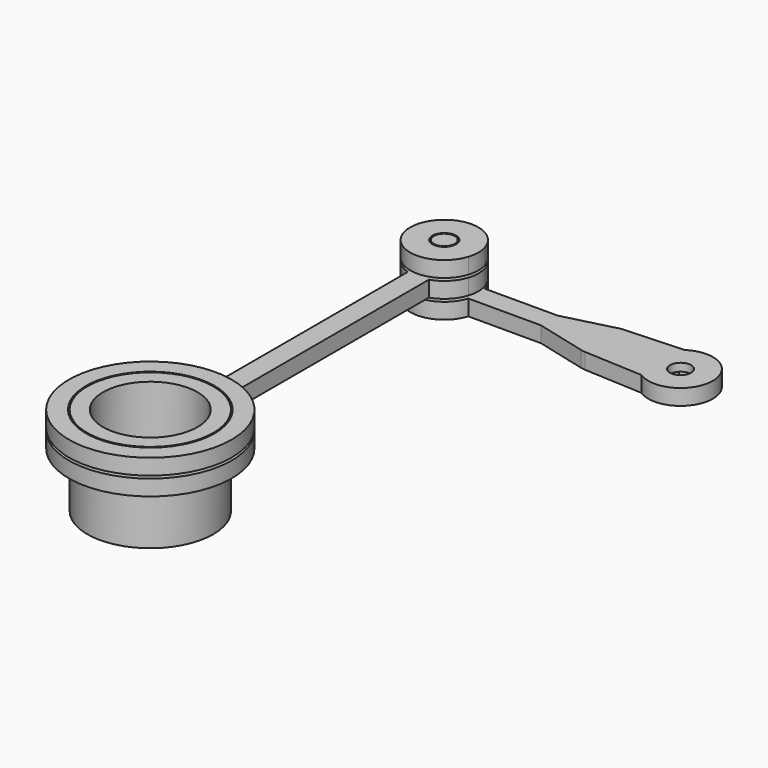
from build123d import *

# Parameters (mm, degrees)
F5_R       = 2.5
F5_R_2     = 2
F6_DEPTH   = 3
F7_DEPTH   = 1.5
F8_R       = 12.5
F8_R_2     = 2.5
F9_DEPTH   = 3
F10_R      = 2.25
F11_DEPTH  = 3
F10_R_2    = 2
F12_DEPTH  = 7
F5_R_3     = 12
F5_R_4     = 9
F13_DEPTH  = 10
F14_R      = 15.5
F14_R_2    = 12.25
F15_DEPTH  = 3
F17_DEPTH  = 7
F12_FACE_R = 2
F18_DEPTH  = 3


with BuildPart() as f6:
    # F5 (on Top) → F6 (new body, through all)
    with BuildSketch(Plane.XY):
        with BuildLine():
            ThreePointArc((-3.349309, -5.157968), (6.15, 0), (-3.349309, 5.157968))
            Line((-3.349309, 5.157968), (-14.482672, 4.594112))
            ThreePointArc((-14.482672, 4.594112), (-14.939377, 4.54805), (-15.389218, 4.456701))
            Line((-15.389218, 4.456701), (-25, 2))
            Line((-25, 2), (-38.815342, 2))
            ThreePointArc((-38.815342, 2), (-51.5, 0), (-38.815342, -2))
            Line((-38.815342, -2), (-25, -2))
            Line((-25, -2), (-15.389218, -4.456701))
            ThreePointArc((-15.389218, -4.456701), (-14.939377, -4.54805), (-14.482672, -4.594112))
            Line((-14.482672, -4.594112), (-3.349309, -5.157968))
        make_face()
        with Locations((-45, 0)):
            Circle(F5_R, mode=Mode.SUBTRACT)
        with BuildLine():
            ThreePointArc((-2.456115, 2.7), (3.65, 0), (-2.456115, -2.7))
            Line((-2.456115, -2.7), (-14.35622, -2.097312))
            ThreePointArc((-14.35622, -2.097312), (-16.35, 0), (-14.35622, 2.097312))
            Line((-14.35622, 2.097312), (-2.456115, 2.7))
        make_face(mode=Mode.SUBTRACT)
        with BuildLine():
            Line((-14.35622, -2.097312), (-2.456115, -2.7))
            ThreePointArc((-2.456115, -2.7), (3.65, 0), (-2.456115, 2.7))
            Line((-2.456115, 2.7), (-14.35622, 2.097312))
            ThreePointArc((-14.35622, 2.097312), (-16.35, 0), (-14.35622, -2.097312))
        make_face()
        Circle(F5_R_2, mode=Mode.SUBTRACT)
    extrude(amount=F6_DEPTH)

    # F5 (on Top) → F7 (cut)
    with BuildSketch(Plane.XY):
        with BuildLine():
            Line((-14.35622, -2.097312), (-2.456115, -2.7))
            ThreePointArc((-2.456115, -2.7), (3.65, 0), (-2.456115, 2.7))
            Line((-2.456115, 2.7), (-14.35622, 2.097312))
            ThreePointArc((-14.35622, 2.097312), (-16.35, 0), (-14.35622, -2.097312))
        make_face()
        Circle(F5_R_2, mode=Mode.SUBTRACT)
    extrude(amount=F7_DEPTH, mode=Mode.SUBTRACT)


with BuildPart() as f9:
    # F8 (on offset) → F9 (new body, through all)
    with BuildSketch(Plane.XY.offset(3.5)):
        with BuildLine():
            ThreePointArc((-38.815342, -2), (-38.5, 0), (-38.815342, 2))
            ThreePointArc((-38.815342, 2), (-49.596194, 4.596194), (-47, -6.184658))
            Line((-47, -6.184658), (-47, -54.629574))
            ThreePointArc((-47, -54.629574), (-45, -85.5), (-43, -54.629574))
            Line((-43, -54.629574), (-43, -6.184658))
            ThreePointArc((-43, -6.184658), (-40.403806, -4.596194), (-38.815342, -2))
        make_face()
        with Locations((-45, -70)):
            Circle(F8_R, mode=Mode.SUBTRACT)
        with Locations((-45, 0)):
            Circle(F8_R_2, mode=Mode.SUBTRACT)
    extrude(amount=F9_DEPTH)


with BuildPart() as f11:
    # F10 (on offset) → F11 (new body)
    with BuildSketch(Plane.XY.offset(7)):
        with BuildLine():
            ThreePointArc((-38.815342, 2), (-51.5, 0), (-38.815342, -2))
            ThreePointArc((-38.815342, -2), (-38.5, 0), (-38.815342, 2))
        make_face()
        with Locations((-45, 0)):
            Circle(F10_R, mode=Mode.SUBTRACT)
    extrude(amount=F11_DEPTH)


with BuildPart() as f12:
    # F10 (on offset) → F12 (new body, through all)
    with BuildSketch(Plane.XY.offset(7)):
        with Locations((-45, 0)):
            Circle(F10_R_2)
    extrude(amount=-F12_DEPTH)

    # F12_face (on face) → F18 (join, through all)
    with BuildSketch(Plane(origin=(-45, 0, 7), x_dir=(1, 0, 0), z_dir=(0, 0, 1))):
        Circle(F12_FACE_R)
    extrude(amount=F18_DEPTH)


with BuildPart() as f13:
    # F5 (on Top) → F13 (new body, through all)
    with BuildSketch(Plane.XY):
        with Locations((-45, -70)):
            Circle(F5_R_3)
        with Locations((-45, -70)):
            Circle(F5_R_4, mode=Mode.SUBTRACT)
    extrude(amount=F13_DEPTH)

    # F5 (on Top) → F17 (join, through all)
    with BuildSketch(Plane.XY):
        with Locations((-45, -70)):
            Circle(F5_R_3)
        with Locations((-45, -70)):
            Circle(F5_R_4, mode=Mode.SUBTRACT)
    extrude(amount=-F17_DEPTH)


with BuildPart() as f15:
    # F14 (on offset) → F15 (new body, through all)
    with BuildSketch(Plane.XY.offset(7)):
        with Locations((-45, -70)):
            Circle(F14_R)
        with Locations((-45, -70)):
            Circle(F14_R_2, mode=Mode.SUBTRACT)
    extrude(amount=F15_DEPTH)


solid = Compound([f6.part, f9.part, f11.part, f12.part, f13.part, f15.part])
